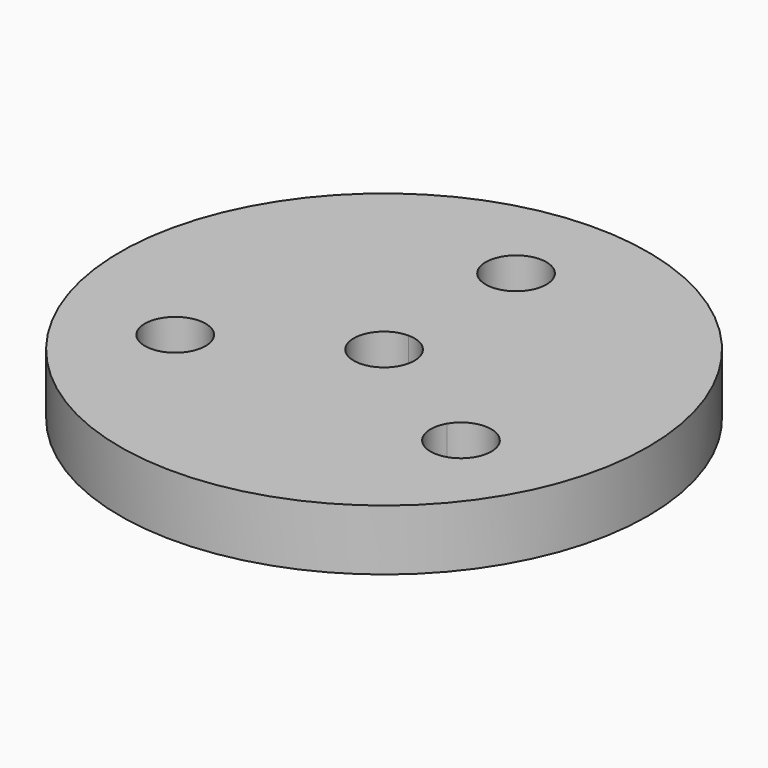
from build123d import *

# Parameters (mm, degrees)
F0_R     = 25.4
F1_DEPTH = 5.842
F3_DEPTH = 5.842


with BuildPart() as f1:
    # F0 (on Top) → F1 (new body)
    with BuildSketch(Plane.XY):
        Circle(F0_R)
    extrude(amount=F1_DEPTH)

    # F2 (on face) → F3 (cut, through all)
    with BuildSketch(Plane.XY.offset(5.842)):
        with BuildLine():
            ThreePointArc((0, 12.954), (2.0654589078, 13.8095410922), (2.921, 15.875))
            ThreePointArc((2.921, 15.875), (-2.0654589078, 17.9404589078), (0, 12.954))
        make_face()
        with BuildLine():
            ThreePointArc((-10.8271532851, -7.9375), (-10.9266839465, -7.1814895693), (-11.2184930806, -6.477))
            ThreePointArc((-11.2184930806, -6.477), (-16.5696226237, -8.6935104307), (-10.8271532851, -7.9375))
        make_face()
        with BuildLine():
            ThreePointArc((16.6691532851, -7.9375), (14.5041637158, -5.1160306614), (11.2184930806, -6.477))
            ThreePointArc((11.2184930806, -6.477), (12.9921428543, -10.7589693386), (16.6691532851, -7.9375))
        make_face()
        with BuildLine():
            Line((0, 0), (0, 2.921))
            ThreePointArc((0, 2.921), (-2.5296602045, 1.4605), (-2.5296602045, -1.4605))
            Line((-2.5296602045, -1.4605), (0, 0))
        make_face()
        with BuildLine():
            ThreePointArc((2.921, 0), (2.0654589078, 2.0654589078), (0, 2.921))
            Line((0, 2.921), (0, 0))
            Line((0, 0), (2.5296602045, -1.4605))
            ThreePointArc((2.5296602045, -1.4605), (2.8214693386, -0.7560104307), (2.921, 0))
        make_face()
        with BuildLine():
            Line((2.5296602045, -1.4605), (0, 0))
            Line((0, 0), (-2.5296602045, -1.4605))
            ThreePointArc((-2.5296602045, -1.4605), (0, -2.921), (2.5296602045, -1.4605))
        make_face()
    extrude(amount=-F3_DEPTH, mode=Mode.SUBTRACT)


solid = f1.part
